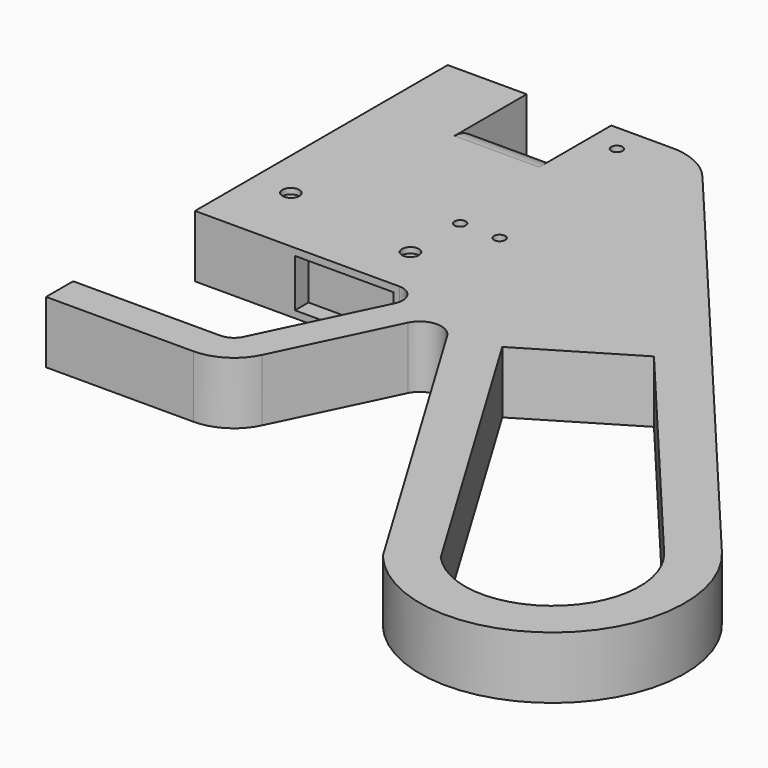
from build123d import *

# Parameters (mm, degrees)
F0_R      = 1
F1_DEPTH  = 5.5
F3_DEPTH  = 25
F4_R      = 1
F5_DEPTH  = 11.001
F6_W      = 17.5
F6_H      = 8.5
F7_DEPTH  = 3
F8_R      = 1.25
F9_DEPTH  = 2
F10_R     = 1.5
F11_DEPTH = 1
F12_R     = 1.5
F13_DEPTH = 1
F15_DEPTH = 25


with BuildPart() as f1:
    # F0 (on Top) → F1 (new body, symmetric)
    with BuildSketch(Plane.XY):
        with BuildLine():
            Line((0, 56), (0, 0))
            Line((0, 0), (36.2259279858, 0))
            ThreePointArc((36.2259279858, 0), (38.7660402441, -1.4038077448), (38.9289329951, -4.3014468563))
            Line((38.9289329951, -4.3014468563), (28.817821884, -25.3014468563))
            ThreePointArc((28.817821884, -25.3014468563), (27.7110091299, -26.5401122582), (26.1148168747, -27))
            Line((26.1148168747, -27), (0, -27))
            Line((0, -27), (0, -33))
            Line((0, -33), (26.1148168747, -33))
            ThreePointArc((26.1148168747, -33), (30.9033936403, -31.6203367747), (34.2238319025, -27.904340569))
            Line((34.2238319025, -27.904340569), (43.9565924234, -7.690145641))
            ThreePointArc((43.9565924234, -7.690145641), (47.3319268627, -5.59281579), (50.7608266635, -7.6013777725))
            Line((50.7608266635, -7.6013777725), (84.9360533184, -64.560088864))
            ThreePointArc((84.9360533184, -64.560088864), (118.0198171676, -67.4369378944), (120.8966661979, -34.3531740452))
            Line((120.8966661979, -34.3531740452), (48.4995788875, 51.8338346577))
            ThreePointArc((48.4995788875, 51.8338346577), (44.4862343011, 54.9569066089), (39.5090393722, 56))
            Line((39.5090393722, 56), (29, 56))
            Line((29, 56), (29, 40))
            Line((29, 40), (14, 40))
            Line((14, 40), (14, 56))
            Line((14, 56), (0, 56))
        make_face()
        with Locations((34, 51)):
            Circle(F0_R, mode=Mode.SUBTRACT)
    extrude(amount=F1_DEPTH, both=True)

    # F2 (on face) → F3 (join)
    with BuildSketch(Plane(origin=(29, 0, 0), x_dir=(0, -1, 0), z_dir=(-1, 0, 0))):
        with BuildLine():
            ThreePointArc((-40, 5.5), (-45.5, 0), (-40, -5.5))
            Line((-40, -5.5), (-40, 5.5))
        make_face()
    extrude(amount=F3_DEPTH)

    # F4 (on face) → F5 (cut, through all)
    with BuildSketch(Plane.XY.offset(5.5)):
        with Locations((31, 20)):
            Circle(F4_R)
        with Locations((38, 20)):
            Circle(F4_R)
    extrude(amount=-F5_DEPTH, mode=Mode.SUBTRACT)

    # F6 (on face) → F7 (cut)
    with BuildSketch(Plane.XZ):
        with Locations((26.4759279858, 0)):
            Rectangle(F6_W, F6_H)
    extrude(amount=-F7_DEPTH, mode=Mode.SUBTRACT)

    # F8 (on face) → F9 (cut)
    with BuildSketch(Plane(origin=(53.9634146341, 45.3292682927, 0), x_dir=(-0.6431920864, 0.7657048648, 0), z_dir=(0.7657048648, 0.6431920864, 0))):
        with Locations((-31.5051259772, 0)):
            Circle(F8_R)
        with Locations((-7.5051259772, 0)):
            Circle(F8_R)
    extrude(amount=-F9_DEPTH, mode=Mode.SUBTRACT)

    # F10 (on face) → F11 (cut)
    with BuildSketch(Plane.XY.offset(5.5)):
        with Locations((7, 12.5)):
            Circle(F10_R)
        with Locations((31, 9)):
            Circle(F10_R)
    extrude(amount=-F11_DEPTH, mode=Mode.SUBTRACT)

    # F12 (on face) → F13 (cut)
    with BuildSketch(Plane(origin=(0, 0, -5.5), x_dir=(1, 0, 0), z_dir=(0, 0, -1))):
        with Locations((7, -12.5)):
            Circle(F12_R)
        with Locations((31, -9)):
            Circle(F12_R)
    extrude(amount=-F13_DEPTH, mode=Mode.SUBTRACT)

    # F14 (on face) → F15 (cut)
    with BuildSketch(Plane(origin=(0, 0, -5.5), x_dir=(1, 0, 0), z_dir=(0, 0, -1))):
        with BuildLine():
            Line((58.6916033415, 5.2701338496), (76.8614300391, -5.6317621689))
            Line((76.8614300391, -5.6317621689), (114.7710272796, 39.4987107366))
            ThreePointArc((114.7710272796, 39.4987107366), (113.0903982462, 61.1263473001), (91.4355349705, 59.8433532312))
            Line((91.4355349705, 59.8433532312), (58.6916033415, 5.2701338496))
        make_face()
    extrude(amount=-F15_DEPTH, mode=Mode.SUBTRACT)


solid = f1.part
